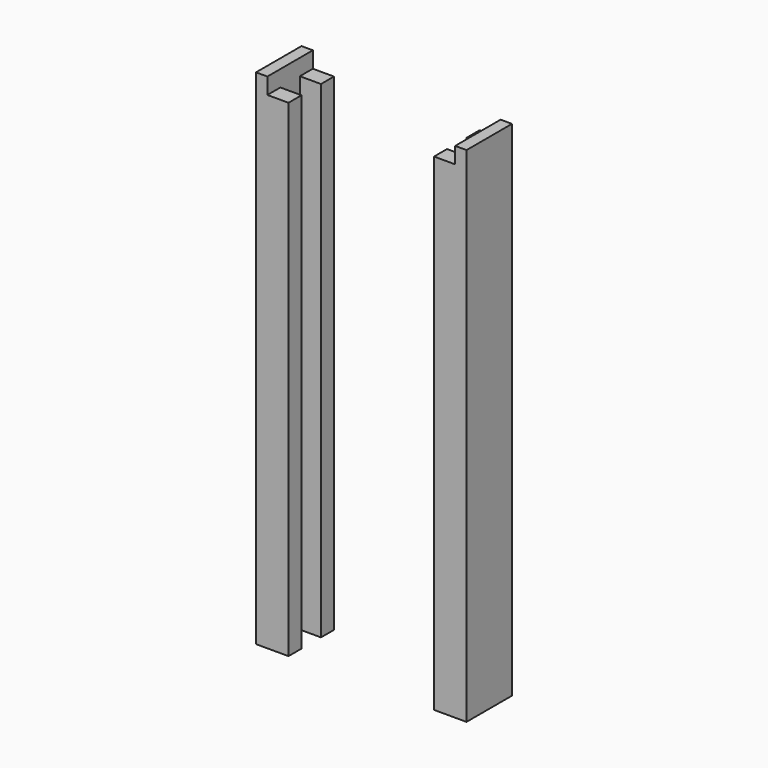
from build123d import *

# Parameters (mm, degrees)
F1_DEPTH = 300
F3_DEPTH = 10


with BuildPart() as f1:
    # F0 (on Top) → F1 (new body)
    with BuildSketch(Plane.XY):
        Polygon((-64.813509, 0), (-44.813509, 0), (-44.813509, 10), (-57.813509, 10), (-57.813509, 25), (-44.813509, 25), (-44.813509, 35), (-64.813509, 35), align=None)
    extrude(amount=F1_DEPTH)

    # F2 (on face) → F3 (join)
    with BuildSketch(Plane.XY.offset(300)):
        Polygon((-57.813509, 10), (-57.813509, 25), (-57.813509, 35), (-64.813509, 35), (-64.813509, 0), (-57.813509, 0), align=None)
        Polygon((-57.813509, 10), (-57.813509, 25), (-57.813509, 35), (-64.813509, 35), (-64.813509, 0), (-57.813509, 0), align=None)
    extrude(amount=F3_DEPTH)


with BuildPart() as f4_1:
    # F4: instance of F1
    add(f1.part.mirror(Plane.YZ))


solid = Compound([f1.part, f4_1.part])
